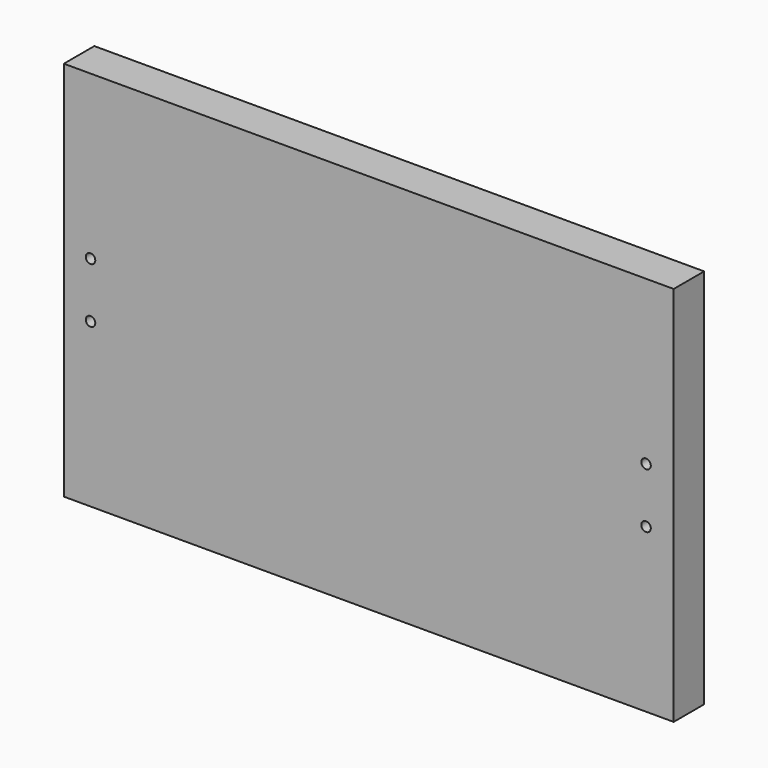
from build123d import *

# Parameters (mm, degrees)
F0_W     = 406.4
F0_H     = 254
F1_DEPTH = 25.4
F3_D     = 6.35


with BuildPart() as f1:
    # F0 (on Front) → F1 (new body)
    with BuildSketch(Plane.XZ):
        with Locations((203.2, 127)):
            Rectangle(F0_W, F0_H)
    extrude(amount=F1_DEPTH)

    # F3 (through all)
    with Locations(Plane.XZ.offset(25.4)):
        with Locations((17.78, 145.415), (17.78, 108.585), (387.985, 145.415), (387.985, 108.585)):
            Hole(F3_D / 2)


solid = f1.part
